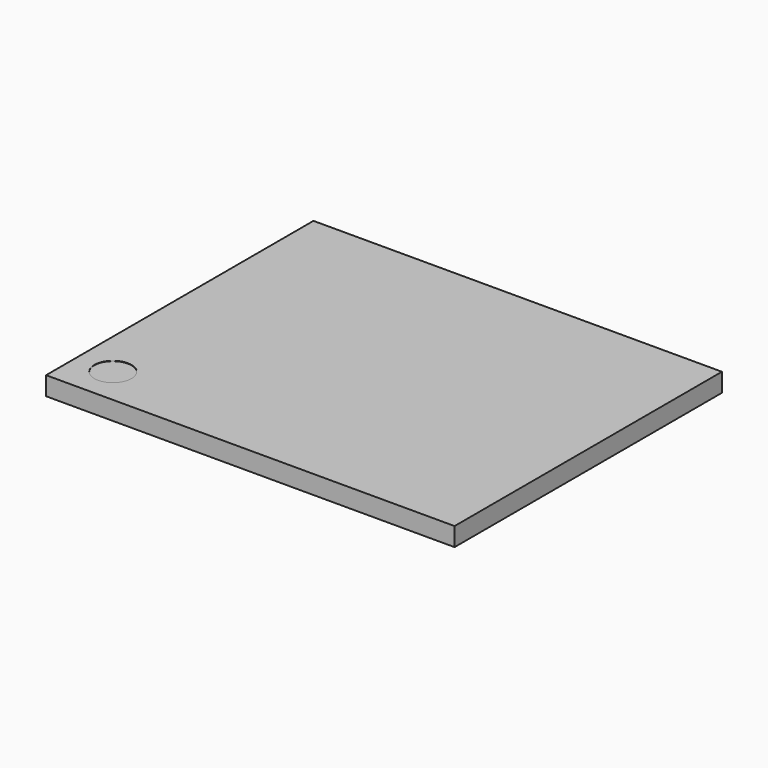
from build123d import *

# Parameters (mm, degrees)
CYLINDER024_R          = 0.5
CYLINDER024_DEPTH      = 0.01
BOX063_W               = 9
BOX063_H               = 11
BOX063_DEPTH           = 0.5
CUT014_PLACEMENT_ANGLE = 90


with BuildPart() as cylinder024:
    # Cylinder024 → Cylinder024 (new body)
    with BuildSketch(Plane(origin=(1, 10, 0.49), x_dir=(1, 0, 0), z_dir=(0, 0, 1))):
        Circle(CYLINDER024_R)
    extrude(amount=CYLINDER024_DEPTH)


with BuildPart() as obj1:
    # Box063 → Box063 (new body)
    with BuildSketch(Plane.XY):
        with Locations((4.5, 5.5)):
            Rectangle(BOX063_W, BOX063_H)
    extrude(amount=BOX063_DEPTH)

    # Cut014: cut Cylinder024
    add(cylinder024.part, mode=Mode.SUBTRACT)


with BuildPart() as obj1_1:
    # Cut014 placement: moved
    add(obj1.part.moved(Location((6.24, 9.63, 18.85))).rotate(Axis((6.24, 9.63, 18.85), (0, 0, 1)), CUT014_PLACEMENT_ANGLE))


solid = obj1_1.part
